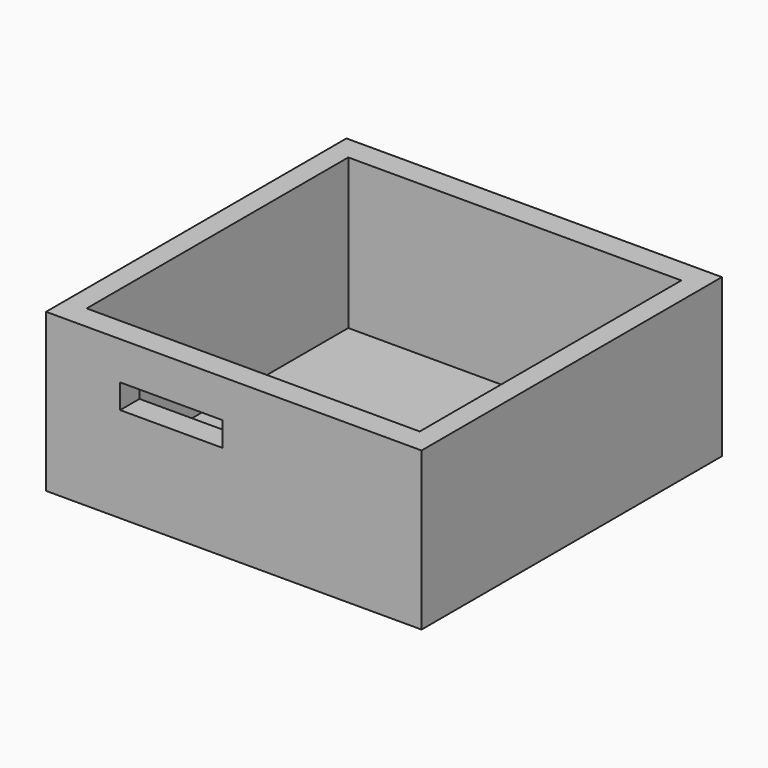
from build123d import *

# Parameters (mm, degrees)
SKETCH_W      = 100
SKETCH_H      = 100
PAD_DEPTH     = 2
SKETCH002_W   = 100
SKETCH002_H   = 100
SKETCH002_W_2 = 88.711022
SKETCH002_H_2 = 87.098678
PAD001_DEPTH  = 40
SKETCH003_W   = 27.317078
SKETCH003_H   = 6.504059
POCKET_DEPTH  = 7


with BuildPart() as part:
    # Sketch → Pad (new body)
    with BuildSketch(Plane.XY):
        Rectangle(SKETCH_W, SKETCH_H)
    extrude(amount=PAD_DEPTH)

    # Sketch002 (on Face6 of Pad) → Pad001 (join)
    with BuildSketch(Plane.XY.offset(2)):
        Rectangle(SKETCH002_W, SKETCH002_H)
        Rectangle(SKETCH002_W_2, SKETCH002_H_2, mode=Mode.SUBTRACT)
    extrude(amount=PAD001_DEPTH)

    # Sketch003 (on Face8 of Pad001) → Pocket (cut)
    with BuildSketch(Plane.XZ.offset(50)):
        with Locations((-16.619589, 28.616544)):
            Rectangle(SKETCH003_W, SKETCH003_H)
    extrude(amount=-POCKET_DEPTH, mode=Mode.SUBTRACT)


solid = part.part
